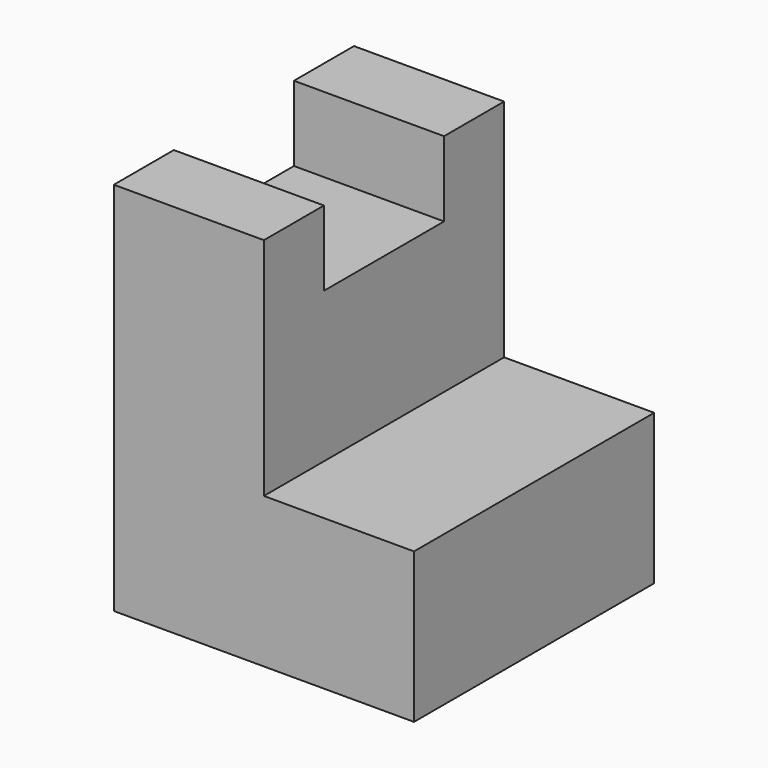
from build123d import *

# Parameters (mm, degrees)
F1_DEPTH = 25.4
F2_W     = 12.7
F2_H     = 6.35
F3_DEPTH = 25.4


with BuildPart() as f1:
    # F0 (on Front) → F1 (new body)
    with BuildSketch(Plane.XZ):
        Polygon((-46.644156, 42.04004), (-59.344156, 42.04004), (-59.344156, 10.29004), (-33.944156, 10.29004), (-33.944156, 22.99004), (-46.644156, 22.99004), align=None)
    extrude(amount=F1_DEPTH)

    # F2 (on face) → F3 (cut)
    with BuildSketch(Plane.YZ.offset(-46.644156)):
        with Locations((-12.7, 38.86504)):
            Rectangle(F2_W, F2_H)
    extrude(amount=-F3_DEPTH, mode=Mode.SUBTRACT)


solid = f1.part
